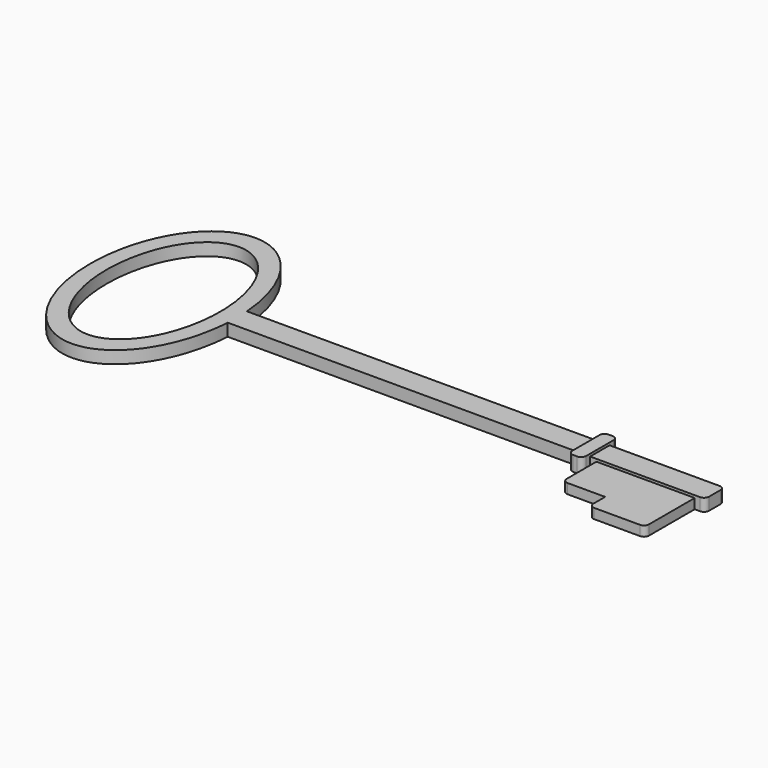
from build123d import *

# Parameters (mm, degrees)
F1_DEPTH = 5
F2_W     = 22.439875
F2_H     = 4
F3_DEPTH = 25
F4_W     = 17.111495
F4_H     = 4
F5_DEPTH = 17
F6_W     = 5.621381
F6_H     = 17.79415
F7_DEPTH = 6
F8_R     = 2


with BuildPart() as f1:
    # F0 (on Top) → F1 (new body)
    with BuildSketch(Plane.XY):
        with BuildLine():
            add(Edge.make_bspline(
                [(-35.037196, 5.429148), (-38.118759, 46.12945), (-64.301655, 46.12945)],
                knots=[4.830356, 4.830356, 4.830356, 6.283185, 6.283185, 6.283185], degree=2, weights=[1, 0.747561, 1]))
            add(Edge.make_bspline(
                [(-64.301655, 46.12945), (-130.936449, 46.12945), (-86.103191, -31.036841), (-41.269934, -108.203133), (-34.964612, -4.365002)],
                knots=[0, 0, 0, 2.308811, 2.308811, 4.617622, 4.617622, 4.617622], degree=2, weights=[1, 0.404462, 1, 0.404462, 1]))
            Line((-34.964612, -4.365002), (-36.749456, -4.365002))
            Line((-36.749456, -4.365002), (-36.749456, 5.429148))
            Line((-36.749456, 5.429148), (-35.037196, 5.429148))
        make_face()
        with BuildLine():
            add(Edge.make_bspline(
                [(-64.301655, 38.115043), (-103.934251, 38.115043), (-84.117953, -19.057522), (-64.301655, -76.230086), (-44.485357, -19.057522), (-24.669058, 38.115043), (-64.301655, 38.115043)],
                knots=[0, 0, 0, 2.094395, 2.094395, 4.18879, 4.18879, 6.283185, 6.283185, 6.283185], degree=2, weights=[1, 0.5, 1, 0.5, 1, 0.5, 1]))
        make_face(mode=Mode.SUBTRACT)
        with BuildLine():
            add(Edge.make_bspline(
                [(-34.964612, -4.365002), (-34.66688, 0.538138), (-35.037196, 5.429148)],
                knots=[4.617622, 4.617622, 4.617622, 4.830356, 4.830356, 4.830356], degree=2, weights=[1, 0.994348, 1]))
            Line((-34.964612, -4.365002), (157.128207, -4.365002))
            Line((157.128207, -4.365002), (157.128207, 5.429148))
            Line((157.128207, 5.429148), (-35.037196, 5.429148))
        make_face()
        with BuildLine():
            Line((-36.749456, -4.365002), (-34.964612, -4.365002))
            add(Edge.make_bspline(
                [(-34.964612, -4.365002), (-34.66688, 0.538138), (-35.037196, 5.429148)],
                knots=[4.617622, 4.617622, 4.617622, 4.830356, 4.830356, 4.830356], degree=2, weights=[1, 0.994348, 1]))
            Line((-35.037196, 5.429148), (-36.749456, 5.429148))
            Line((-36.749456, 5.429148), (-36.749456, -4.365002))
        make_face()
    extrude(amount=F1_DEPTH)

    # F2 (on face) → F3 (join)
    with BuildSketch(Plane.XZ.offset(4.365002)):
        with Locations((141.744967, 2)):
            Rectangle(F2_W, F2_H)
    extrude(amount=F3_DEPTH)

    # F4 (on face) → F5 (join)
    with BuildSketch(Plane.XZ.offset(4.365002)):
        with Locations((121.969282, 2)):
            Rectangle(F4_W, F4_H)
    extrude(amount=F5_DEPTH)

    # F6 (on Top) → F7 (join)
    with BuildSketch(Plane.XY):
        with Locations((108.074437, 0.532073)):
            Rectangle(F6_W, F6_H)
    extrude(amount=F7_DEPTH)

    # F8
    f8_edges = [f1.edges().sort_by_distance(p)[0] for p in [
        (157.128207, -4.365002, 2.5),
        (157.128207, 5.429148, 2.5),
        (110.885128, 9.429148, 3),
        (105.263747, 9.429148, 3),
        (105.263747, -8.365002, 3),
        (110.885128, -8.365002, 3),
        (113.413535, -21.365002, 2),
        (130.52503, -29.365002, 2),
        (152.964905, -29.365002, 2),
    ]]
    fillet(f8_edges, radius=F8_R)


solid = f1.part
